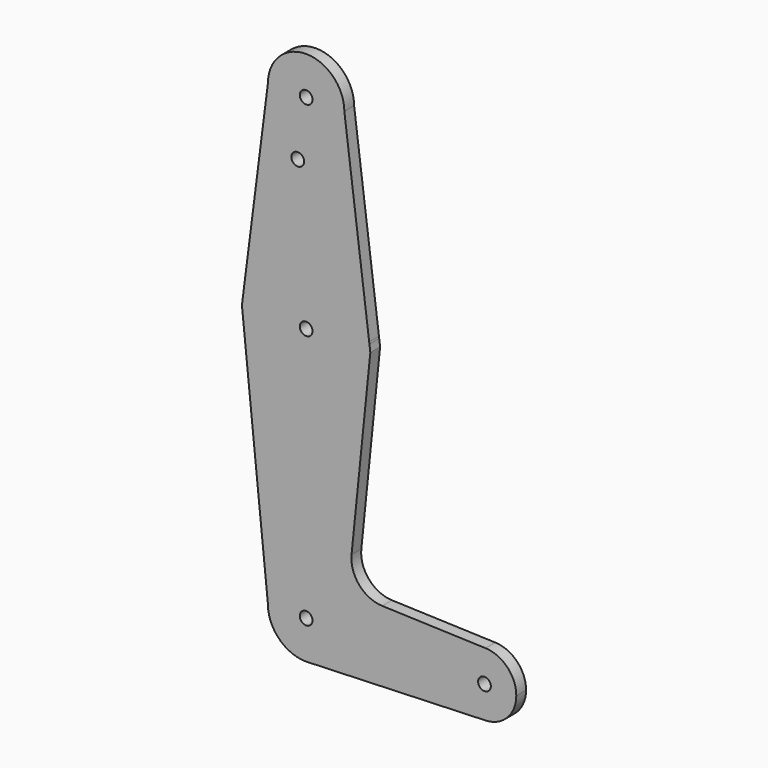
from build123d import *

# Parameters (mm, degrees)
F0_R     = 1.5875
F1_DEPTH = 3.048


with BuildPart() as f1:
    # F0 (on Front) → F1 (new body)
    with BuildSketch(Plane.XZ):
        with BuildLine():
            ThreePointArc((0, 15.875), (-11.22532, -11.22532), (15.875, 0))
            ThreePointArc((15.875, 0), (15.850583, 0.880139), (15.777407, 1.75757))
            Line((15.777407, 1.75757), (15.713706, 2.257224))
            ThreePointArc((15.713706, 2.257224), (10.396687, 11.996855), (0, 15.875))
        make_face()
        with BuildLine():
            ThreePointArc((1.5875, 0), (-1.122532, -1.122532), (0, 1.5875))
            ThreePointArc((0, 1.5875), (1.122532, 1.122532), (1.5875, 0))
        make_face(mode=Mode.SUBTRACT)
        with BuildLine():
            ThreePointArc((52.3875, -63.469104), (50.159731, -57.955223), (44.726933, -55.536436))
            ThreePointArc((44.726933, -55.536436), (36.512502, -63.474579), (44.737877, -71.401382))
            ThreePointArc((44.737877, -71.401382), (50.163533, -68.979044), (52.3875, -63.469104))
        make_face()
        with Locations((44.45, -63.469104)):
            Circle(F0_R, mode=Mode.SUBTRACT)
        with BuildLine():
            ThreePointArc((9.525, -63.5), (0, -53.975), (-9.525, -63.5))
            ThreePointArc((-9.525, -63.5), (-6.735192, -70.235192), (0, -73.025))
            Line((0, -73.025), (0.69045, -72.999942))
            ThreePointArc((0.69045, -72.999942), (6.975032, -69.98649), (9.525, -63.5))
        make_face()
        with Locations((0, -63.5)):
            Circle(F0_R, mode=Mode.SUBTRACT)
        with BuildLine():
            ThreePointArc((-9.525, 50.8), (0, 41.275), (9.525, 50.8))
            ThreePointArc((9.525, 50.8), (0, 60.325), (-9.525, 50.8))
        make_face()
        with Locations((0, 50.8)):
            Circle(F0_R, mode=Mode.SUBTRACT)
        with BuildLine():
            ThreePointArc((15.777407, 1.75757), (15.850583, 0.880139), (15.875, 0))
            ThreePointArc((15.875, 0), (-11.22532, -11.22532), (0, 15.875))
            ThreePointArc((0, 15.875), (10.396687, 11.996855), (15.713706, 2.257224))
            Line((15.713706, 2.257224), (9.525, 50.8))
            ThreePointArc((9.525, 50.8), (0, 41.275), (-9.525, 50.8))
            Line((-9.525, 50.8), (-16.004145, 0))
            Line((-16.004145, 0), (-9.525, -63.5))
            ThreePointArc((-9.525, -63.5), (0, -53.975), (9.525, -63.5))
            ThreePointArc((9.525, -63.5), (6.975032, -69.98649), (0.69045, -72.999942))
            Line((0.69045, -72.999942), (44.737877, -71.401382))
            ThreePointArc((44.737877, -71.401382), (36.512502, -63.474579), (44.726933, -55.536436))
            Line((44.726933, -55.536436), (18.953416, -54.636672))
            ThreePointArc((18.953416, -54.636672), (13.238764, -51.916376), (11.321622, -45.884642))
            Line((11.321622, -45.884642), (16.001479, 0))
            Line((16.001479, 0), (15.777407, 1.75757))
        make_face()
        with Locations((-2.092012, 36.5252)):
            Circle(F0_R, mode=Mode.SUBTRACT)
    extrude(amount=F1_DEPTH)


solid = f1.part
